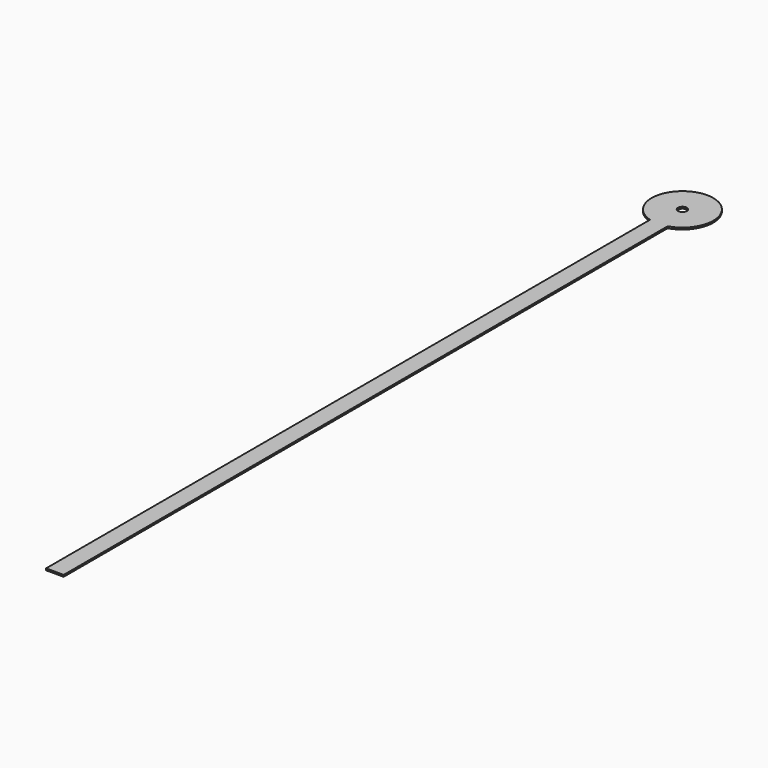
from build123d import *

# Parameters (mm, degrees)
F0_R     = 0.255
F1_DEPTH = 0.1


with BuildPart() as f1:
    # F0 (on Top) → F1 (new body)
    with BuildSketch(Plane.XY):
        with BuildLine():
            Line((0, 42.84), (0, 0))
            Line((0, 0), (1, 0))
            Line((1, 0), (1, 42.84))
            ThreePointArc((1, 42.84), (0.5, 46.267051), (0, 42.84))
        make_face()
        with Locations((0.5, 44.517051)):
            Circle(F0_R, mode=Mode.SUBTRACT)
    extrude(amount=F1_DEPTH)


solid = f1.part
